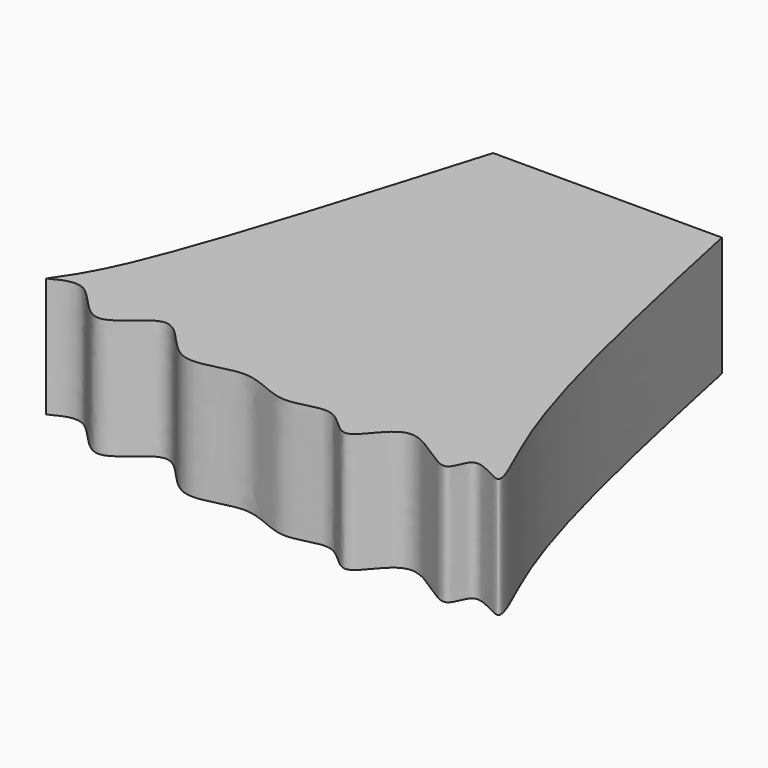
from build123d import *

# Parameters (mm, degrees)
F1_DEPTH = 30


with BuildPart() as f1:
    # F0 (on Top) → F1 (new body)
    with BuildSketch(Plane.XY):
        with BuildLine():
            add(Edge.make_bspline(
                [(-63.6733695865, -19.5297952741), (-61.1709985122, -15.9290939036), (-52.8859437917, -4.0075974502), (-38.5635277679, 43.5061663612), (-28.5669732839, 76.6691416502)],
                knots=[0, 0, 0, 0, 0.3020343448, 1, 1, 1, 1], degree=3))
            add(Edge.make_bspline(
                [(-63.6733695865, -19.5297952741), (-60.9714977196, -18.1093637033), (-54.8407202108, -14.8862834255), (-45.5041172789, -32.6252472474), (-33.1100440096, -12.7664548699), (-23.3399792251, -33.540012586), (-7.4978341596, -23.5432833412), (4.2517381541, -33.3341047754), (15.9969721463, -25.8075082973), (23.6937326238, -39.2635590597), (31.8531928628, -19.2518487243), (48.4580419651, -38.2621861746), (49.0396712252, -24.4736449565), (63.155631394, -35.7110708148), (46.3107709225, -6.2979944678), (35.9511598466, 42.7356873381), (28.7818554789, 76.6691416502)],
                knots=[0, 0, 0, 0, 0.0527277093, 0.1196436656, 0.1865379779, 0.256397421, 0.3266528961, 0.3932528226, 0.4542941613, 0.5094190142, 0.5741350073, 0.6464187269, 0.6912870488, 0.7434871421, 0.8224818732, 1, 1, 1, 1], degree=3))
            Line((28.7818554789, 76.6691416502), (-28.5669732839, 76.6691416502))
        make_face()
    extrude(amount=F1_DEPTH)


solid = f1.part
